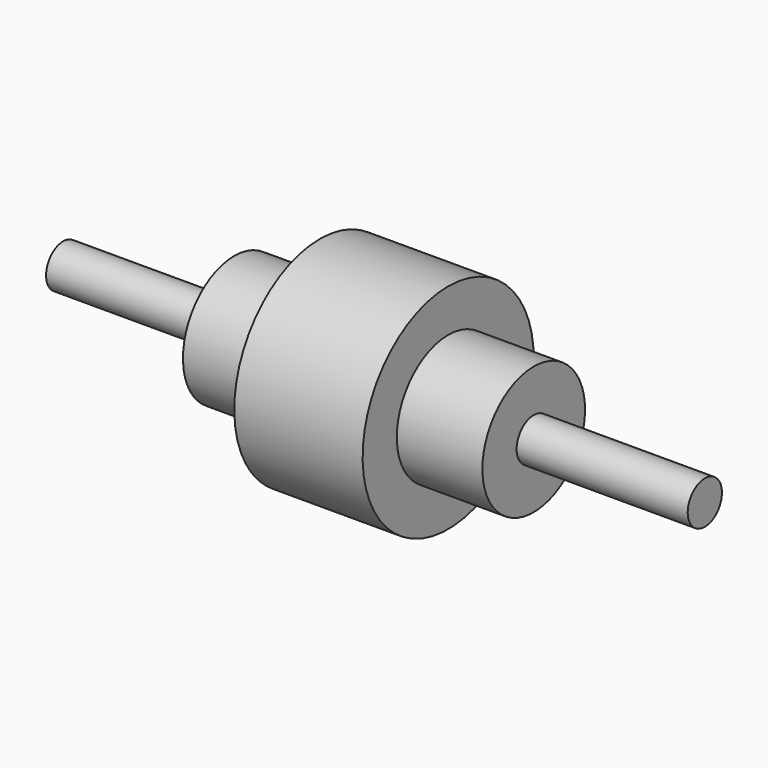
from build123d import *

# Parameters (mm, degrees)
F0_W = 80
F0_H = 10


with BuildPart() as f1:
    # F0 (on Front) → F1 (revolve)
    with BuildSketch(Plane.XZ):
        with Locations((-110, 5)):
            Rectangle(F0_W, F0_H)
        Polygon((-70, 10), (-70, 0), (-30, 0), (-30, 30), (-70, 30), align=None)
        Polygon((-30, 30), (-30, 0), (30, 0), (30, 30), (30, 50), (-30, 50), align=None)
        Polygon((30, 30), (30, 0), (70, 0), (70, 10), (70, 30), align=None)
        with Locations((110, 5)):
            Rectangle(F0_W, F0_H)
    revolve(axis=Axis((0, 0, 0), (1, 0, 0)))


solid = f1.part
